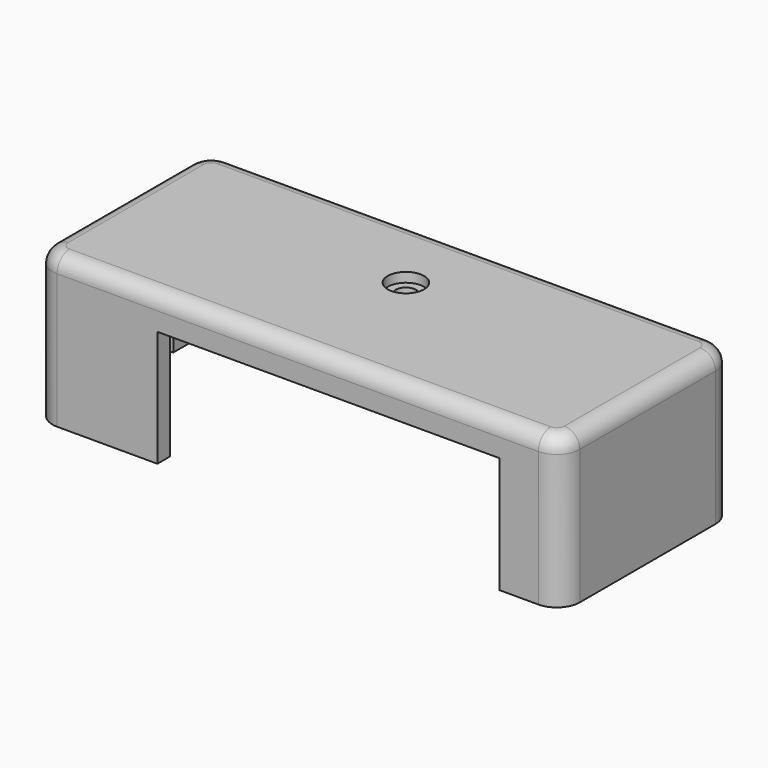
from build123d import *

# Parameters (mm, degrees)
PAD_DEPTH        = 22.6
THICKNESS_T      = 2.6
SKETCH001_W      = 57.4
SKETCH001_H      = 19.5
POCKET_DEPTH     = 5
SKETCH002_W      = 15.7
SKETCH002_H      = 20.5
POCKET001_DEPTH  = 5
HOLE_D           = 3.4
HOLE_DEPTH       = 25
HOLE_CBORE_D     = 6.1
HOLE_CBORE_DEPTH = 1.6
HOLE_TIPS_R      = 1.7


with BuildPart() as part:
    # Sketch → Pad (new body)
    with BuildSketch(Plane.XY):
        with BuildLine():
            ThreePointArc((-40.38, 15.5), (-41.278026, 15.128026), (-41.65, 14.23))
            Line((-41.65, -14.23), (-41.65, 14.23))
            ThreePointArc((-41.65, -14.23), (-41.278026, -15.128026), (-40.38, -15.5))
            Line((40.38, -15.5), (-40.38, -15.5))
            ThreePointArc((40.38, -15.5), (41.278026, -15.128026), (41.65, -14.23))
            Line((41.65, 14.23), (41.65, -14.23))
            ThreePointArc((41.65, 14.23), (41.278026, 15.128026), (40.38, 15.5))
            Line((-40.38, 15.5), (40.38, 15.5))
        make_face()
    extrude(amount=PAD_DEPTH)

    # Thickness
    thickness_openings = [part.faces().sort_by_distance(p)[0] for p in [
        (0, 0, 0),
    ]]
    offset(amount=THICKNESS_T, openings=thickness_openings)

    # Sketch001 → Pocket (cut)
    with BuildSketch(Plane.XZ.offset(18.1)):
        with Locations((5.15, 9.75)):
            Rectangle(SKETCH001_W, SKETCH001_H)
    extrude(amount=-POCKET_DEPTH, mode=Mode.SUBTRACT)

    # Sketch002 → Pocket001 (cut)
    with BuildSketch(Plane.YZ.offset(-44.25)):
        with Locations((0, 10.25)):
            Rectangle(SKETCH002_W, SKETCH002_H)
    extrude(amount=POCKET001_DEPTH, mode=Mode.SUBTRACT)

    # Hole
    with Locations(Plane.XY.offset(25.2)):
        with Locations((0, 4.592)):
            CounterBoreHole(HOLE_D / 2, HOLE_CBORE_D / 2, HOLE_CBORE_DEPTH, depth=HOLE_DEPTH)

    # Hole tips → Hole tip 1 section 0
    with BuildSketch(Plane.XY.offset(0.2), mode=Mode.PRIVATE) as hole_tip_1_s0:
        with Locations((0, 4.592)):
            Circle(HOLE_TIPS_R)
    loft([hole_tip_1_s0.sketch, Vertex(0, 4.592, -0.821463)], mode=Mode.SUBTRACT)


solid = part.part
